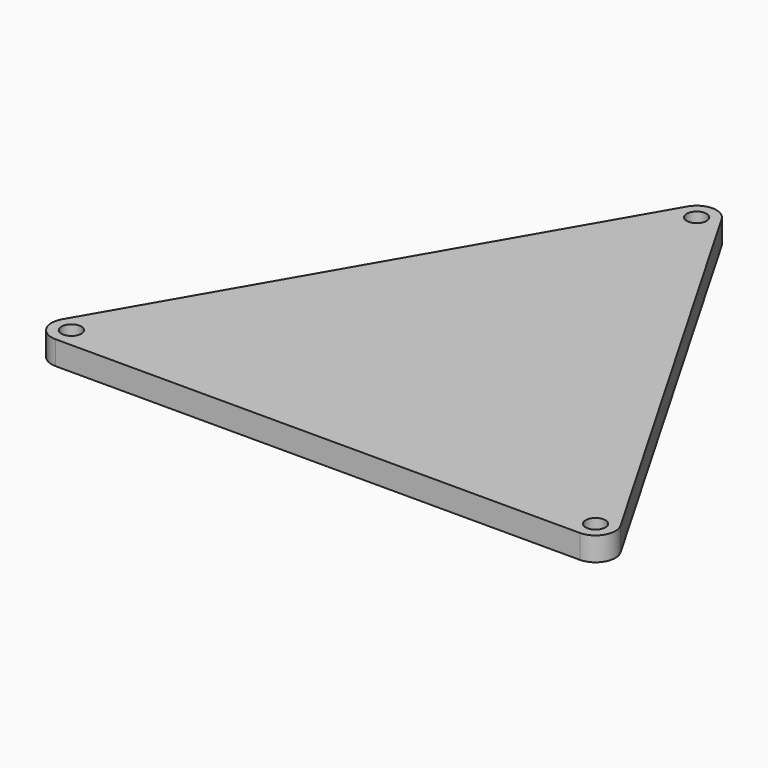
from build123d import *

# Parameters (mm, degrees)
F0_R     = 2.5
F1_DEPTH = 6


with BuildPart() as f1:
    # F0 (on Top) → F1 (new body)
    with BuildSketch(Plane.XY):
        with BuildLine():
            ThreePointArc((4.796656, 79.382457), (0.466529, 81.882457), (-3.863598, 79.382457))
            Line((-3.863598, 79.382457), (-70.203344, -35.521353))
            ThreePointArc((-70.203344, -35.521353), (-70.203344, -40.521353), (-65.873217, -43.021353))
            Line((-65.873217, -43.021353), (66.806275, -43.021353))
            ThreePointArc((66.806275, -43.021353), (71.136402, -40.521353), (71.136402, -35.521353))
            Line((71.136402, -35.521353), (4.796656, 79.382457))
        make_face()
        with Locations((-65.873217, -38.021353)):
            Circle(F0_R, mode=Mode.SUBTRACT)
        with Locations((66.806275, -38.021353)):
            Circle(F0_R, mode=Mode.SUBTRACT)
        with Locations((0.466529, 76.882457)):
            Circle(F0_R, mode=Mode.SUBTRACT)
    extrude(amount=F1_DEPTH)


solid = f1.part
